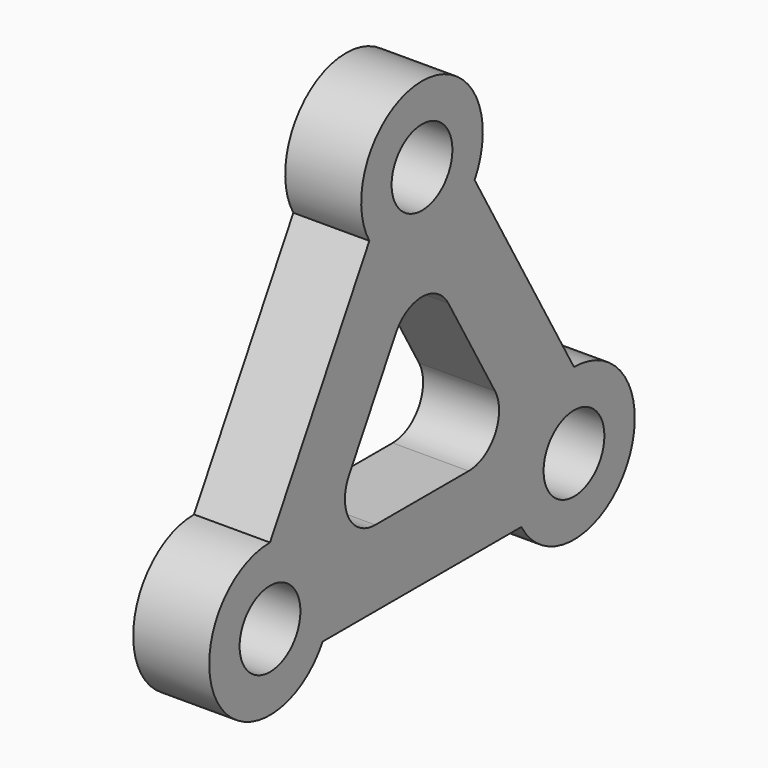
from build123d import *

# Parameters (mm, degrees)
F0_R     = 5
F1_DEPTH = 10


with BuildPart() as f1:
    # F0 (on Right) → F1 (new body)
    with BuildSketch(Plane.YZ):
        with BuildLine():
            Line((25.000001, -4.433757), (8.660254, 23.867514))
            ThreePointArc((8.660254, 23.867514), (0, 38.867513), (-8.660254, 23.867513))
            Line((-8.660254, 23.867513), (-25, -4.433757))
            ThreePointArc((-25, -4.433757), (-33.660254, -19.433756), (-16.339746, -19.433757))
            Line((-16.339746, -19.433757), (16.339746, -19.433757))
            ThreePointArc((16.339746, -19.433757), (33.660254, -19.433757), (25.000001, -4.433757))
        make_face()
        with Locations((-25, -14.433757)):
            Circle(F0_R, mode=Mode.SUBTRACT)
        with Locations((25, -14.433757)):
            Circle(F0_R, mode=Mode.SUBTRACT)
        with BuildLine():
            ThreePointArc((-4.330127, 11.367513), (0, 13.867513), (4.330127, 11.367513))
            Line((4.330127, 11.367513), (12.009619, -1.933757))
            ThreePointArc((12.009619, -1.933757), (12.009619, -6.933757), (7.679492, -9.433757))
            Line((7.679492, -9.433757), (-7.679492, -9.433757))
            ThreePointArc((-7.679492, -9.433757), (-12.009619, -6.933757), (-12.009619, -1.933757))
            Line((-12.009619, -1.933757), (-4.330127, 11.367513))
        make_face(mode=Mode.SUBTRACT)
        with Locations((0, 28.867513)):
            Circle(F0_R, mode=Mode.SUBTRACT)
    extrude(amount=F1_DEPTH)


solid = f1.part
